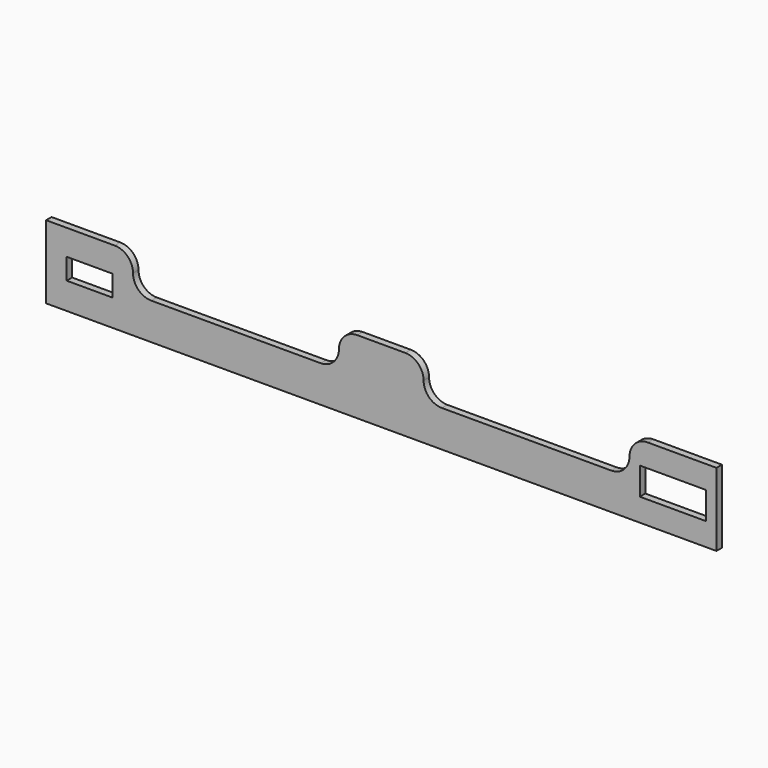
from build123d import *

# Parameters (mm, degrees)
F0_W     = 145
F0_H     = 60
F0_W_2   = 100
F0_H_2   = 46
F1_DEPTH = 15


with BuildPart() as f1:
    # F0 (on Front) → F1 (new body)
    with BuildSketch(Plane.XZ):
        with BuildLine():
            Line((150, 0), (0, 0))
            Line((0, 0), (0, -160))
            Line((0, -160), (1465, -160))
            Line((1465, -160), (1465, 0))
            Line((1465, 0), (1315, 0))
            ThreePointArc((1315, 0), (1286.715729, -11.715729), (1275, -40))
            ThreePointArc((1275, -40), (1263.284271, -68.284271), (1235, -80))
            Line((1235, -80), (865, -80))
            ThreePointArc((865, -80), (836.715729, -68.284271), (825, -40))
            ThreePointArc((825, -40), (813.284271, -11.715729), (785, 0))
            Line((785, 0), (680, 0))
            ThreePointArc((680, 0), (651.715729, -11.715729), (640, -40))
            ThreePointArc((640, -40), (628.284271, -68.284271), (600, -80))
            Line((600, -80), (230, -80))
            ThreePointArc((230, -80), (201.715729, -68.284271), (190, -40))
            ThreePointArc((190, -40), (178.284271, -11.715729), (150, 0))
        make_face()
        with Locations((1370, -80)):
            Rectangle(F0_W, F0_H, mode=Mode.SUBTRACT)
        with Locations((95, -78.74256)):
            Rectangle(F0_W_2, F0_H_2, mode=Mode.SUBTRACT)
    extrude(amount=F1_DEPTH)


solid = f1.part
